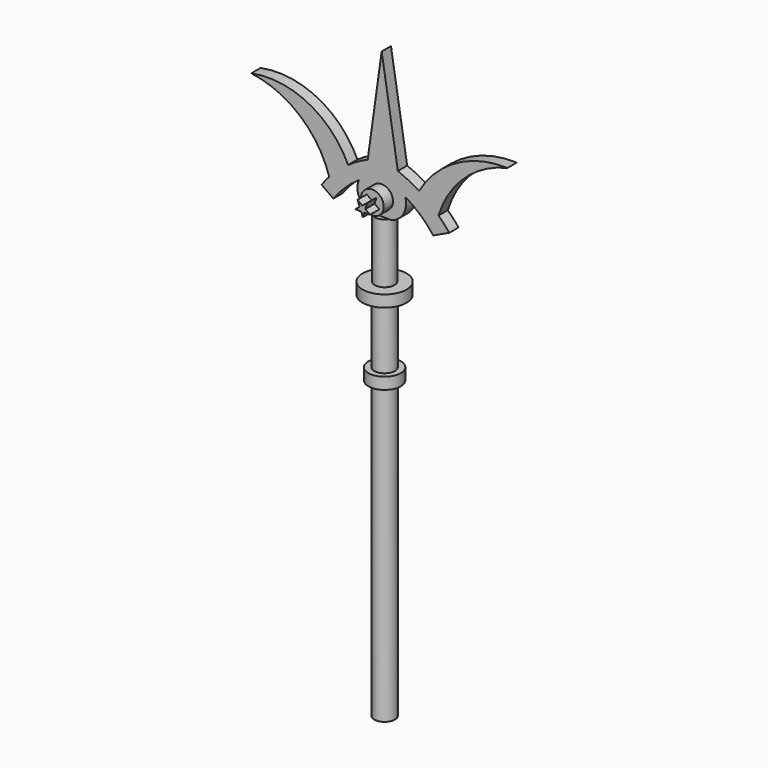
from build123d import *

# Parameters (mm, degrees)
F2_DEPTH = 12.7
F3_DEPTH = 12.7
F4_R     = 24.9146373385
F5_DEPTH = 25.4
F7_DEPTH = 25.4
F9_DEPTH = 25.4


with BuildPart() as f1:
    # F0 (on Front) → F1 (revolve)
    with BuildSketch(Plane.XZ):
        with BuildLine():
            ThreePointArc((-22.4938495666, 491.2897817279), (-33.3579609991, 490.4867814337), (-44.0870682904, 492.3735732673))
            Line((-44.0870682904, 492.3735732673), (-44.0870682904, -473.7532143853))
            Line((-44.0870682904, -473.7532143853), (-21.4947682272, -473.7532143853))
            Line((-21.4947682272, -473.7532143853), (-21.4947682272, 170.8812385928))
            Line((-21.4947682272, 170.8812385928), (-8.7947682272, 170.8812385928))
            Line((-8.7947682272, 170.8812385928), (-8.7947682272, 196.2812385928))
            Line((-8.7947682272, 196.2812385928), (-21.4947682272, 196.2812385928))
            Line((-21.4947682272, 196.2812385928), (-21.4947682272, 335.6240540956))
            Line((-21.4947682272, 335.6240540956), (3.9052317728, 335.6240540956))
            Line((3.9052317728, 335.6240540956), (3.9052317728, 361.0240540956))
            Line((3.9052317728, 361.0240540956), (-22.4938495666, 361.0240540956))
            Line((-22.4938495666, 361.0240540956), (-22.4938495666, 491.2897817279))
        make_face()
    revolve(axis=Axis((-44.0870682904, 0, 9.310179441), (0, 0, -1)))


with BuildPart() as f2:
    # F0 (on Front) → F2 (new body, symmetric)
    with BuildSketch(Plane.XZ):
        with BuildLine():
            Line((-64.83810843, 492.3735732673), (-44.0870682904, 492.3735732673))
            Line((-44.0870682904, 492.3735732673), (-22.4938495666, 492.3735732673))
            Line((-22.4938495666, 492.3735732673), (-22.4938495666, 491.2897817279))
            ThreePointArc((-22.4938495666, 491.2897817279), (6.581955448, 511.7351330578), (11.1069576873, 546.9904756739))
            ThreePointArc((11.1069576873, 546.9904756739), (-15.6794479956, 560.5744337884), (-44.0870682904, 570.3234109987))
            ThreePointArc((-44.0870682904, 570.3234109987), (-67.5524244611, 559.7964111326), (-89.6597167851, 546.6545584284))
            ThreePointArc((-89.6597167851, 546.6545584284), (-89.9001801269, 513.7288943623), (-64.83810843, 492.3735732673))
        make_face()
    extrude(amount=F2_DEPTH, both=True)

    # F0 (on Front) → F3 (join, symmetric)
    with BuildSketch(Plane.XZ):
        with BuildLine():
            ThreePointArc((-325.0871726454, 674.817033702), (-218.8423958011, 628.0411634879), (-154.8424980123, 531.191033266))
            ThreePointArc((-154.8424980123, 531.191033266), (-135.2879106712, 550.5136595723), (-113.6807575738, 567.5100329643))
            ThreePointArc((-113.6807575738, 567.5100329643), (-200.6686188019, 658.0347928274), (-325.0871726454, 674.817033702))
        make_face()
        with BuildLine():
            Line((-40.3713199942, 809.4491037841), (-70.8689583113, 591.4153089702))
            ThreePointArc((-70.8689583113, 591.4153089702), (-55.8006505654, 597.3500075882), (-40.3713199942, 602.2704043339))
            ThreePointArc((-40.3713199942, 602.2704043339), (-22.5252695122, 597.3388322123), (-5.0583785752, 591.1980144828))
            Line((-5.0583785752, 591.1980144828), (-40.3713199942, 809.4491037841))
        make_face()
        with BuildLine():
            ThreePointArc((41.1847229875, 567.8105781468), (63.2949859363, 552.2186087955), (83.7371153167, 534.4959514801))
            ThreePointArc((83.7371153167, 534.4959514801), (140.2455259289, 624.7435525858), (234.2161408262, 674.817033702))
            ThreePointArc((234.2161408262, 674.817033702), (122.8387179819, 648.1231950922), (41.1847229875, 567.8105781468))
        make_face()
        with BuildLine():
            ThreePointArc((-145.8085201229, 492.3735732673), (-120.1127545063, 521.974551182), (-89.6597167851, 546.6545584284))
            ThreePointArc((-89.6597167851, 546.6545584284), (-67.5524244611, 559.7964111326), (-44.0870682904, 570.3234109987))
            ThreePointArc((-44.0870682904, 570.3234109987), (-15.6794479956, 560.5744337884), (11.1069576873, 546.9904756739))
            ThreePointArc((11.1069576873, 546.9904756739), (44.2868340547, 522.6007982127), (72.2524456968, 492.3735732673))
            Line((72.2524456968, 492.3735732673), (107.2450782753, 508.8623192504))
            ThreePointArc((107.2450782753, 508.8623192504), (95.9035211511, 522.0573594256), (83.7371153167, 534.4959514801))
            ThreePointArc((83.7371153167, 534.4959514801), (63.2949859363, 552.2186087955), (41.1847229875, 567.8105781468))
            ThreePointArc((41.1847229875, 567.8105781468), (18.6245186774, 580.6142256593), (-5.0583785752, 591.1980144828))
            ThreePointArc((-5.0583785752, 591.1980144828), (-22.5252695122, 597.3388322123), (-40.3713199942, 602.2704043339))
            ThreePointArc((-40.3713199942, 602.2704043339), (-55.8006505654, 597.3500075882), (-70.8689583113, 591.4153089702))
            ThreePointArc((-70.8689583113, 591.4153089702), (-92.8778561518, 580.542576436), (-113.6807575738, 567.5100329643))
            ThreePointArc((-113.6807575738, 567.5100329643), (-135.2879106712, 550.5136595723), (-154.8424980123, 531.191033266))
            ThreePointArc((-154.8424980123, 531.191033266), (-163.4558137021, 521.1235565635), (-171.509040112, 510.602680235))
            Line((-171.509040112, 510.602680235), (-145.8085201229, 492.3735732673))
        make_face()
    extrude(amount=F3_DEPTH, both=True)

    # F4 (on face) → F5 (join)
    with BuildSketch(Plane.XZ.offset(12.7)):
        with Locations((-40.469802916, 529.5170545578)):
            Circle(F4_R)
    extrude(amount=F5_DEPTH)

    # F6 (on face) → F7 (join)
    with BuildSketch(Plane.XZ.offset(38.1)):
        Polygon((-41.8389929722, 533.3718877766), (-52.470266819, 541.103720665), (-47.6928298504, 528.8188989837), align=None)
        Polygon((-41.8389929722, 533.3718877766), (-47.6928298504, 528.8188989837), (-44.7458224716, 521.2408900261), (-37.7545436073, 521.2408900261), (-35.4064127847, 528.6936492355), align=None)
        Polygon((-44.7458224716, 521.2408900261), (-47.6928298504, 528.8188989837), (-57.4359744787, 521.2408900261), align=None)
        Polygon((-31.3660018146, 541.5175557137), (-41.8389929722, 533.3718877766), (-35.4064127847, 528.6936492355), align=None)
        Polygon((-37.7545436073, 521.2408900261), (-44.7458224716, 521.2408900261), (-40.8836118877, 511.309504509), align=None)
        Polygon((-25.1588653773, 521.2408900261), (-35.4064127847, 528.6936492355), (-37.7545436073, 521.2408900261), align=None)
    extrude(amount=F7_DEPTH)

    # F8 (on face) → F9 (join)
    with BuildSketch(Plane(origin=(0, 12.7, 0), x_dir=(-1, 0, 0), z_dir=(0, 1, 0))):
        Polygon((18.4498950839, 559.4500303268), (18.4498950839, 531.5557122231), (69.9471086264, 531.5557122231), (69.9471086264, 558.3771467209), (60.2913796902, 545.5028712749), (47.4170744419, 568.0328607559), (30.2513409406, 545.5028712749), align=None)
    extrude(amount=F9_DEPTH)


solid = Compound([f1.part, f2.part])
